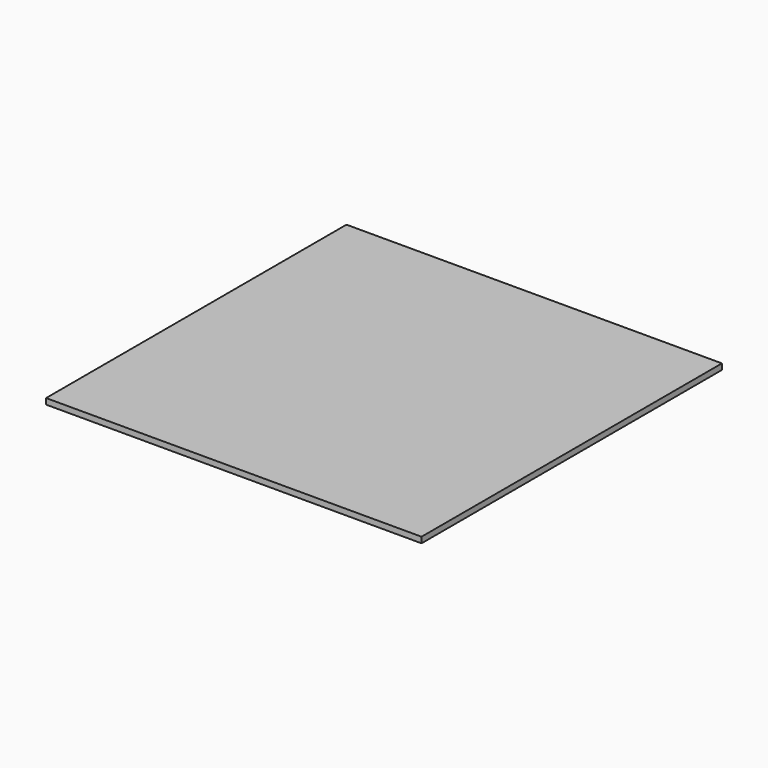
from build123d import *

# Parameters (mm, degrees)
SKETCH_W  = 200
SKETCH_H  = 200
PAD_DEPTH = 3.1


with BuildPart() as part:
    # Sketch → Pad (new body)
    with BuildSketch(Plane.XY):
        Rectangle(SKETCH_W, SKETCH_H)
    extrude(amount=PAD_DEPTH)


solid = part.part
